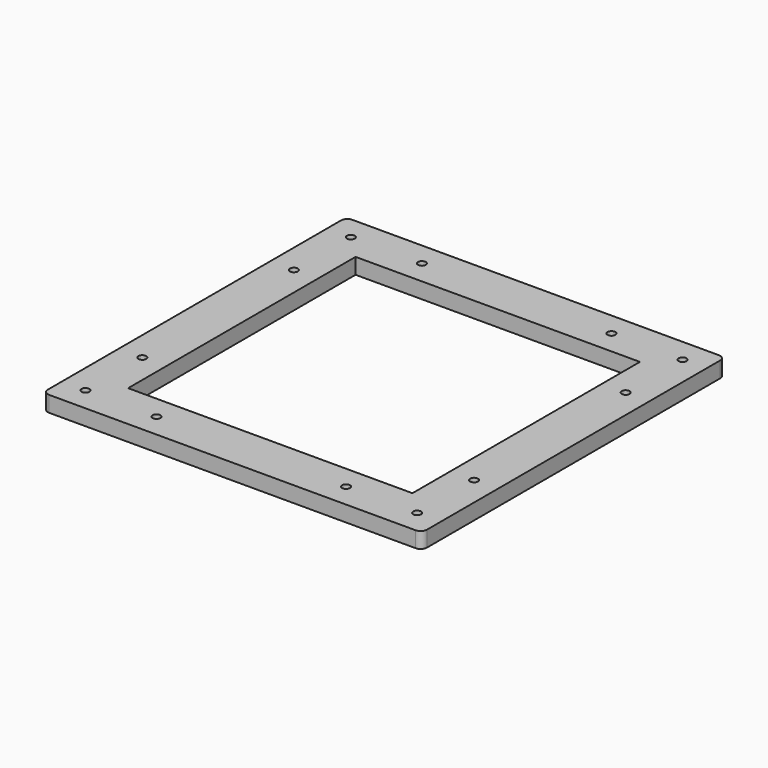
from build123d import *

# Parameters (mm, degrees)
F0_W     = 152.4
F0_H     = 152.4
F0_W_2   = 114.3
F0_H_2   = 114.3
F1_DEPTH = 6.35
F2_D     = 3.175
F3_R     = 2.54


with BuildPart() as f1:
    # F0 (on Top) → F1 (new body)
    with BuildSketch(Plane.XY):
        Rectangle(F0_W, F0_H)
        Rectangle(F0_W_2, F0_H_2, mode=Mode.SUBTRACT)
    extrude(amount=F1_DEPTH)

    # F2 (through all)
    with Locations(Plane(origin=(0, 0, 0), x_dir=(1, 0, 0), z_dir=(0, 0, -1))):
        with Locations((-66.675, 66.675), (-38.1, 66.675), (38.1, 66.675), (66.675, 66.675), (66.675, 38.1), (66.675, -38.1), (66.675, -66.675), (38.1, -66.675), (-38.1, -66.675), (-66.675, -66.675), (-66.675, -38.1), (-66.675, 38.1)):
            Hole(F2_D / 2)

    # F3
    f3_edges = [f1.edges().sort_by_distance(p)[0] for p in [
        (-76.2, -76.2, 3.175),
        (76.2, -76.2, 3.175),
        (76.2, 76.2, 3.175),
        (-76.2, 76.2, 3.175),
    ]]
    fillet(f3_edges, radius=F3_R)


solid = f1.part
